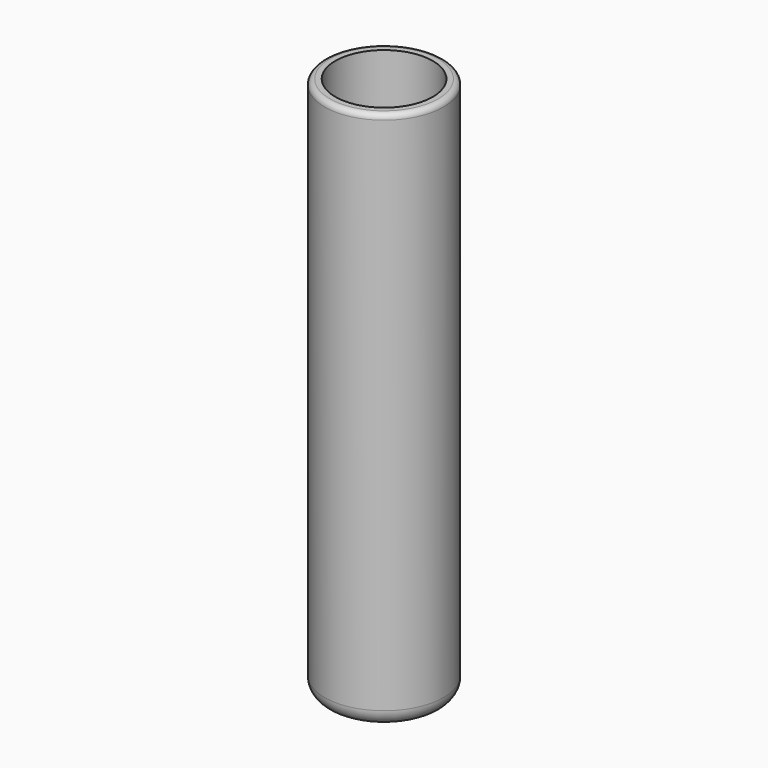
from build123d import *

# Parameters (mm, degrees)
F0_R     = 11
F1_DEPTH = 100
F2_T     = -2
F3_R     = 3
F4_R     = 1


with BuildPart() as f1:
    # F0 (on Top) → F1 (new body)
    with BuildSketch(Plane.XY):
        Circle(F0_R)
    extrude(amount=F1_DEPTH)

    # F2
    f2_openings = [f1.faces().sort_by_distance(p)[0] for p in [
        (0, 0, 100),
    ]]
    offset(amount=F2_T, openings=f2_openings)

    # F3
    f3_edges = [f1.edges().sort_by_distance(p)[0] for p in [
        (-11, 0, 0),
    ]]
    fillet(f3_edges, radius=F3_R)

    # F4
    f4_edges = [f1.edges().sort_by_distance(p)[0] for p in [
        (-11, 0, 100),
    ]]
    fillet(f4_edges, radius=F4_R)


solid = f1.part
